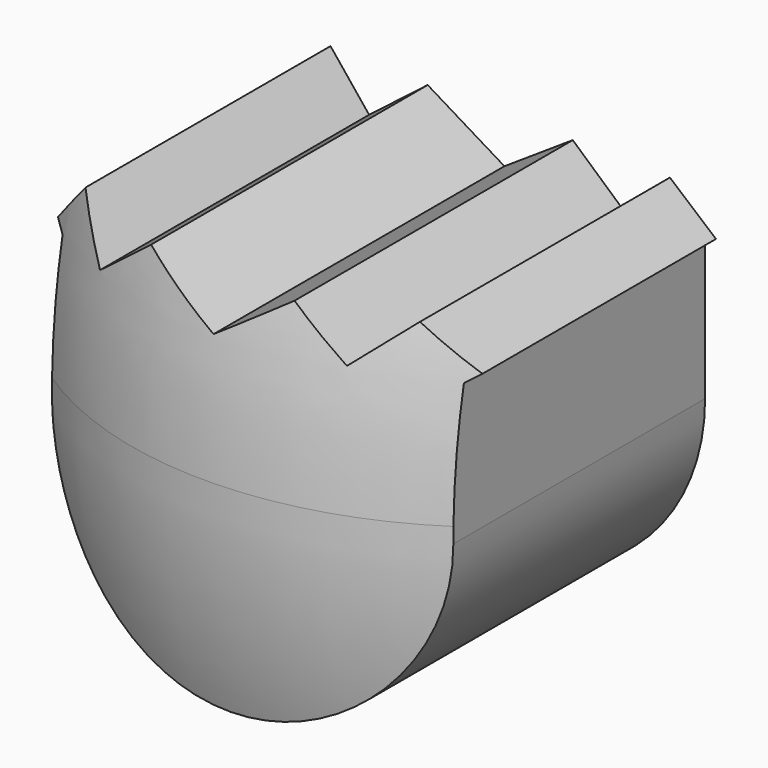
from build123d import *

# Parameters (mm, degrees)
EXTRUDE001_DEPTH = 100


with BuildPart() as body002:
    # Sketch → Revolution (revolve)
    with BuildSketch(Plane.XZ):
        with BuildLine():
            Line((0, 0), (0, 135.563389))
            ThreePointArc((23.86226, 121.281178), (13.904936, 131.720055), (0, 135.563389))
            ThreePointArc((32.577943, 87.696618), (30.229669, 105.01041), (23.86226, 121.281178))
            ThreePointArc((22.101567, 52.101534), (30.047255, 69.102202), (32.577943, 87.696618))
            ThreePointArc((22.101567, 52.101534), (13.488015, 26.476163), (18.952965, 0))
            Line((0, 0), (18.952965, 0))
        make_face()
    revolve(axis=Axis((0, 0, 0), (0, 0, 1)))


with BuildPart() as body002_1:
    # Clone001 placement: moved
    add(body002.part.moved(Location((0, -1, 0))))


with BuildPart() as common001:
    # Sketch014 → Extrude001 (new body)
    with BuildSketch(Plane.XZ):
        with BuildLine():
            Line((-19.184126, 99.1166), (-15.572962, 103.201874))
            Line((-15.572962, 103.201874), (-12.116452, 98.911034))
            Line((-12.116452, 98.911034), (-6.872091, 102.963493))
            Line((-6.872091, 102.963493), (0, 98.795265))
            Line((0, 98.795265), (6.11962, 102.844307))
            Line((6.11962, 102.844307), (10.485641, 98.955933))
            Line((10.485641, 98.955933), (14.820494, 102.725113))
            Line((14.820494, 102.725113), (18.947416, 99.223709))
            Line((18.947416, 99.223709), (17.97, 98.527489))
            Line((17.97, 98.527489), (17.97, 86.319122))
            ThreePointArc((-17.97, 86.319122), (0, 68.349122), (17.97, 86.319122))
            Line((-17.97, 98.527489), (-17.97, 86.319122))
            Line((-19.184126, 99.1166), (-17.97, 98.527489))
        make_face()
    extrude(amount=EXTRUDE001_DEPTH)

    # Common001: intersect Body002
    add(body002_1.part, mode=Mode.INTERSECT)


solid = common001.part
